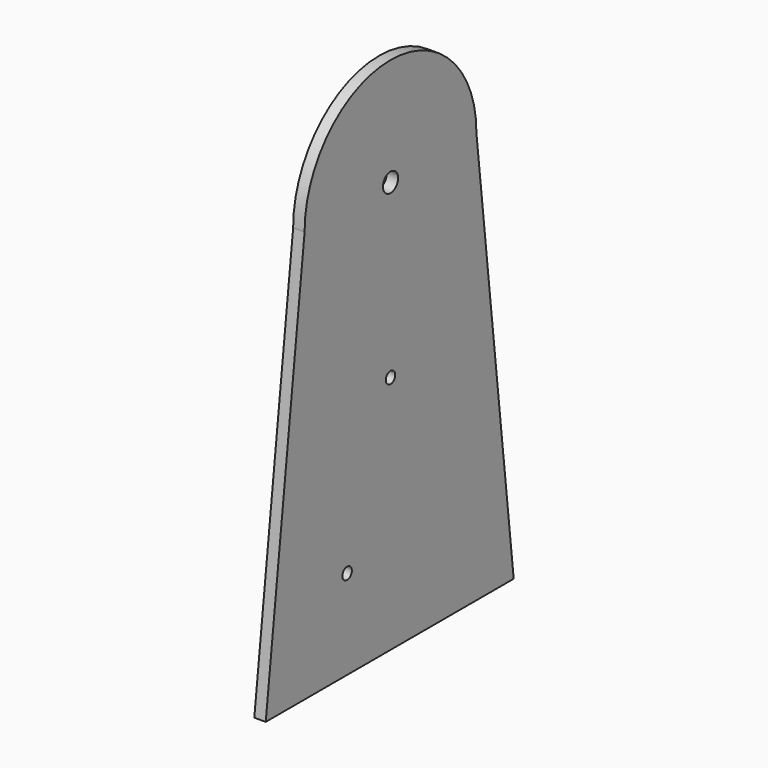
from build123d import *

# Parameters (mm, degrees)
F0_R     = 1.65
F0_R_2   = 2.65
F1_DEPTH = 3.2


with BuildPart() as f1:
    # F0 (on Right) → F1 (new body)
    with BuildSketch(Plane.YZ):
        with BuildLine():
            Line((69.275617, -65.912343), (56.247052, 49.087657))
            ThreePointArc((56.247052, 49.087657), (26.247052, 79.191874), (-3.752948, 49.087657))
            Line((-3.752948, 49.087657), (-17.324383, -65.912343))
            Line((-17.324383, -65.912343), (69.275617, -65.912343))
        make_face()
        with Locations((11.091482, -40.912343)):
            Circle(F0_R, mode=Mode.SUBTRACT)
        with Locations((26.247052, 1.087657)):
            Circle(F0_R, mode=Mode.SUBTRACT)
        with Locations((26.247052, 49.087657)):
            Circle(F0_R_2, mode=Mode.SUBTRACT)
    extrude(amount=F1_DEPTH)


solid = f1.part
